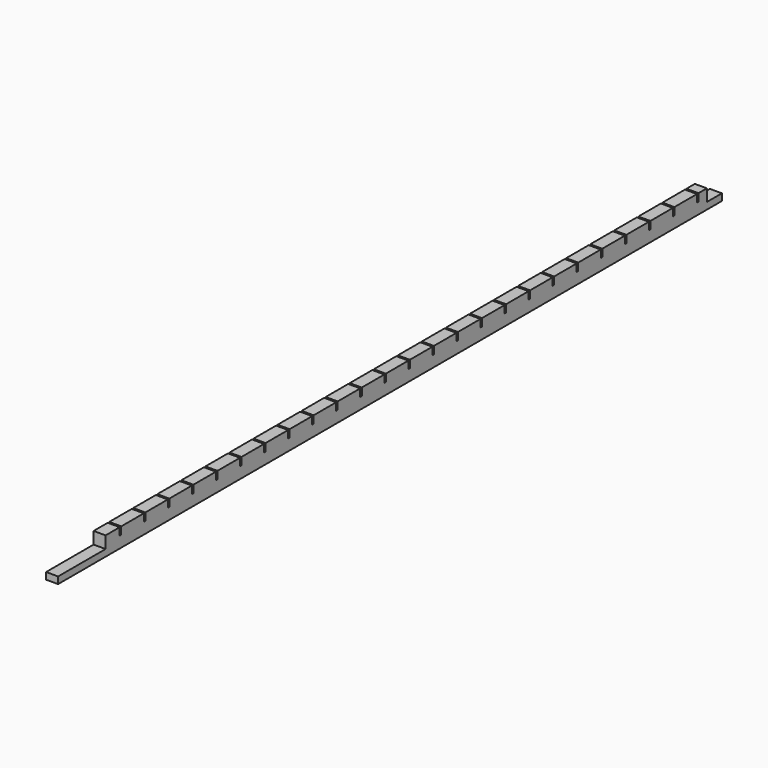
from build123d import *

# Parameters (mm, degrees)
F0_W     = 32
F0_H     = 18
F1_DEPTH = 2208
F3_W     = 32
F3_H     = 32
F4_DEPTH = 2000
F5_W     = 5
F5_H     = 31
F6_DEPTH = 32


with BuildPart() as f1:
    # F0 (on Front) → F1 (new body)
    with BuildSketch(Plane.XZ):
        Rectangle(F0_W, F0_H)
    extrude(amount=F1_DEPTH)

    # F3 (on offset) → F4 (join)
    with BuildSketch(Plane.XZ.offset(50)):
        with Locations((0, 25)):
            Rectangle(F3_W, F3_H)
    extrude(amount=F4_DEPTH)

    # F5 (on face) → F6 (cut)
    with BuildSketch(Plane(origin=(-16, 0, 0), x_dir=(0, -1, 0), z_dir=(-1, 0, 0))):
        with Locations((80.5, 36.5)):
            Rectangle(F5_W, F5_H)
        with Locations((160.5, 36.5)):
            Rectangle(F5_W, F5_H)
        with Locations((240.5, 36.5)):
            Rectangle(F5_W, F5_H)
        with Locations((320.5, 36.5)):
            Rectangle(F5_W, F5_H)
        with Locations((400.5, 36.5)):
            Rectangle(F5_W, F5_H)
        with Locations((480.5, 36.5)):
            Rectangle(F5_W, F5_H)
        with Locations((560.5, 36.5)):
            Rectangle(F5_W, F5_H)
        with Locations((640.5, 36.5)):
            Rectangle(F5_W, F5_H)
        with Locations((720.5, 36.5)):
            Rectangle(F5_W, F5_H)
        with Locations((800.5, 36.5)):
            Rectangle(F5_W, F5_H)
        with Locations((880.5, 36.5)):
            Rectangle(F5_W, F5_H)
        with Locations((960.5, 36.5)):
            Rectangle(F5_W, F5_H)
        with Locations((1040.5, 36.5)):
            Rectangle(F5_W, F5_H)
        with Locations((1120.5, 36.5)):
            Rectangle(F5_W, F5_H)
        with Locations((1200.5, 36.5)):
            Rectangle(F5_W, F5_H)
        with Locations((1280.5, 36.5)):
            Rectangle(F5_W, F5_H)
        with Locations((1360.5, 36.5)):
            Rectangle(F5_W, F5_H)
        with Locations((1440.5, 36.5)):
            Rectangle(F5_W, F5_H)
        with Locations((1520.5, 36.5)):
            Rectangle(F5_W, F5_H)
        with Locations((1600.5, 36.5)):
            Rectangle(F5_W, F5_H)
        with Locations((1680.5, 36.5)):
            Rectangle(F5_W, F5_H)
        with Locations((1760.5, 36.5)):
            Rectangle(F5_W, F5_H)
        with Locations((1840.5, 36.5)):
            Rectangle(F5_W, F5_H)
        with Locations((1920.5, 36.5)):
            Rectangle(F5_W, F5_H)
        with Locations((2000.5, 36.5)):
            Rectangle(F5_W, F5_H)
    extrude(amount=-F6_DEPTH, mode=Mode.SUBTRACT)


solid = f1.part
